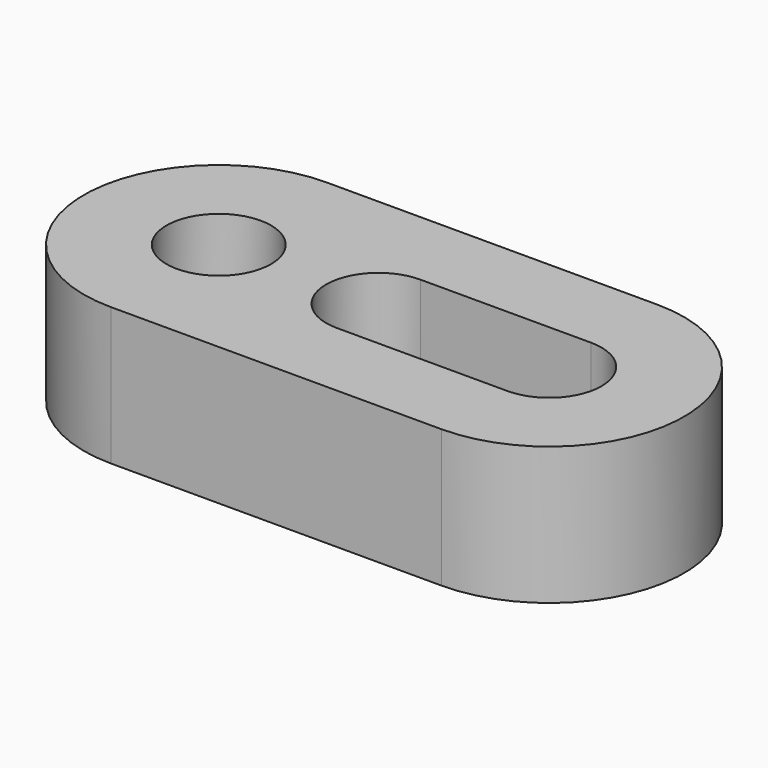
from build123d import *

# Parameters (mm, degrees)
CYLINDER_R     = 3
CYLINDER_DEPTH = 3
SKETCH_R       = 1.9
PAD_DEPTH      = 5


with BuildPart() as cylinder:
    # Cylinder → Cylinder (new body)
    with BuildSketch(Plane(origin=(-6, 0, 0), x_dir=(1, 0, 0), z_dir=(0, 0, 1))):
        Circle(CYLINDER_R)
    extrude(amount=CYLINDER_DEPTH)


with BuildPart() as attach_cut:
    # Sketch → Pad (new body)
    with BuildSketch(Plane.XY):
        with BuildLine():
            Line((-6, 4.9), (6, 4.9))
            ThreePointArc((6, -4.9), (10.9, 0), (6, 4.9))
            Line((-6, -4.9), (6, -4.9))
            ThreePointArc((-6, 4.9), (-10.9, 0), (-6, -4.9))
        make_face()
        with Locations((-6, 0)):
            Circle(SKETCH_R, mode=Mode.SUBTRACT)
        with BuildLine():
            Line((-0.2, 1.9), (6, 1.9))
            ThreePointArc((6, -1.9), (7.9, 0), (6, 1.9))
            Line((-0.2, -1.9), (6, -1.9))
            ThreePointArc((-0.2, 1.9), (-2.1, 0), (-0.2, -1.9))
        make_face(mode=Mode.SUBTRACT)
    extrude(amount=PAD_DEPTH)

    # Cut: cut Cylinder
    add(cylinder.part, mode=Mode.SUBTRACT)


solid = attach_cut.part
